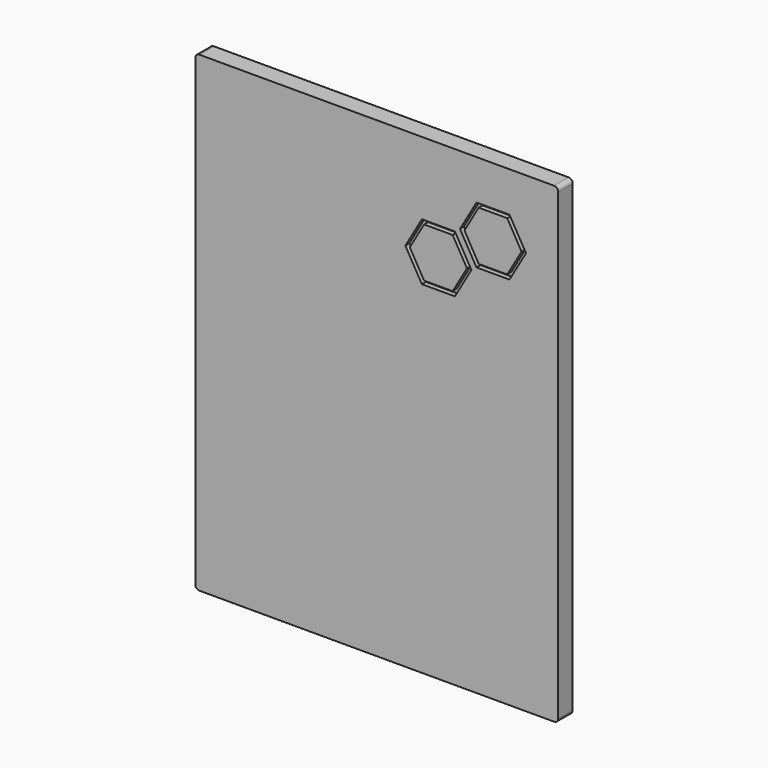
from build123d import *

# Parameters (mm, degrees)
F1_DEPTH = 5.5
F3_DEPTH = 1.5


with BuildPart() as f1:
    # F0 (on Front) → F1 (new body)
    with BuildSketch(Plane.XZ):
        with BuildLine():
            Line((-108.73, 0), (-1.27, 0))
            ThreePointArc((-1.27, 0), (-0.371974, 0.371974), (0, 1.27))
            Line((0, 1.27), (0, 141.73))
            ThreePointArc((0, 141.73), (-0.371974, 142.628026), (-1.27, 143))
            Line((-1.27, 143), (-108.73, 143))
            ThreePointArc((-108.73, 143), (-109.628026, 142.628026), (-110, 141.73))
            Line((-110, 141.73), (-110, 1.27))
            ThreePointArc((-110, 1.27), (-109.628026, 0.371974), (-108.73, 0))
        make_face()
    extrude(amount=F1_DEPTH)

    # F2 (on face) → F3 (cut)
    with BuildSketch(Plane.XZ.offset(5.5)):
        Polygon((-24.763699, 113.553825), (-14.763699, 113.553825), (-9.763699, 122.214079), (-14.763699, 130.874333), (-24.763699, 130.874333), (-29.763699, 122.214079), align=None)
        Polygon((-11.103445, 122.214079), (-15.433572, 114.714079), (-24.093826, 114.714079), (-28.423953, 122.214079), (-24.093826, 129.714079), (-15.433572, 129.714079), align=None, mode=Mode.SUBTRACT)
        Polygon((-41.31521, 121.024189), (-46.31521, 112.363935), (-41.31521, 103.70368), (-31.31521, 103.70368), (-26.31521, 112.363935), (-31.31521, 121.024189), align=None)
        Polygon((-27.654956, 112.363935), (-31.985083, 104.863935), (-40.645337, 104.863935), (-44.975464, 112.363935), (-40.645337, 119.863935), (-31.985083, 119.863935), align=None, mode=Mode.SUBTRACT)
    extrude(amount=-F3_DEPTH, mode=Mode.SUBTRACT)


solid = f1.part
